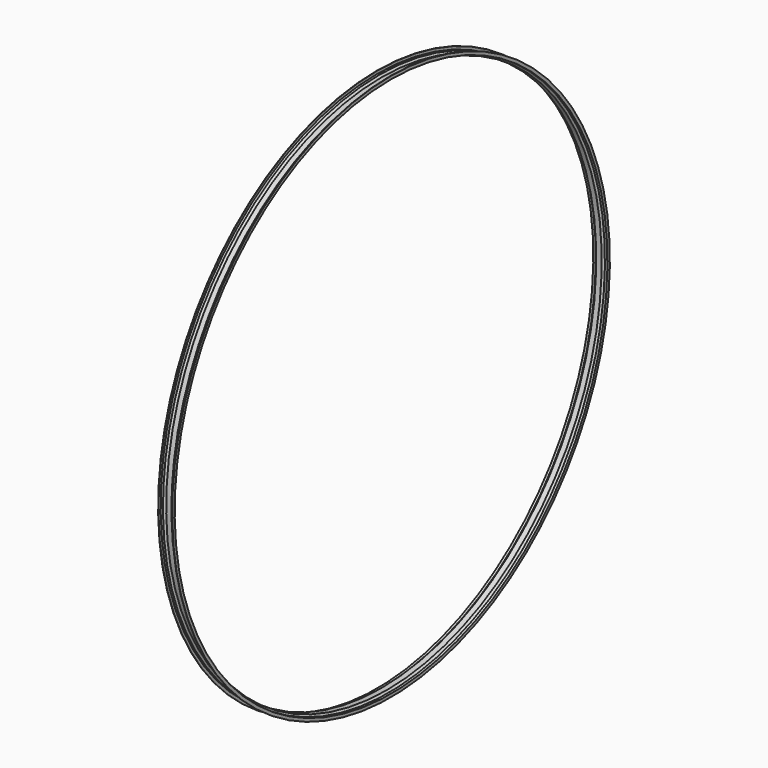
from build123d import *


with BuildPart() as f3:
    # F1 (on Front) → F3 (revolve)
    with BuildSketch(Plane.XZ):
        Polygon((-16.473403, -13.693644), (-16.473403, -6.959551), (-17.235403, -6.959551), (-17.235403, -14.455645), (-11.178664, -14.455645), (-6.652121, -18.714551), (6.655403, -18.714551), (11.115072, -14.455645), (17.16853, -14.455645), (17.16853, -6.959551), (16.406529, -6.959551), (16.406529, -13.693644), (10.809669, -13.693644), (6.35, -17.95255), (-6.35, -17.95255), (-10.876543, -13.693644), align=None)
    revolve(axis=Axis((-7.759148, 0, -674.093644), (-1, 0, 0)))


solid = f3.part
